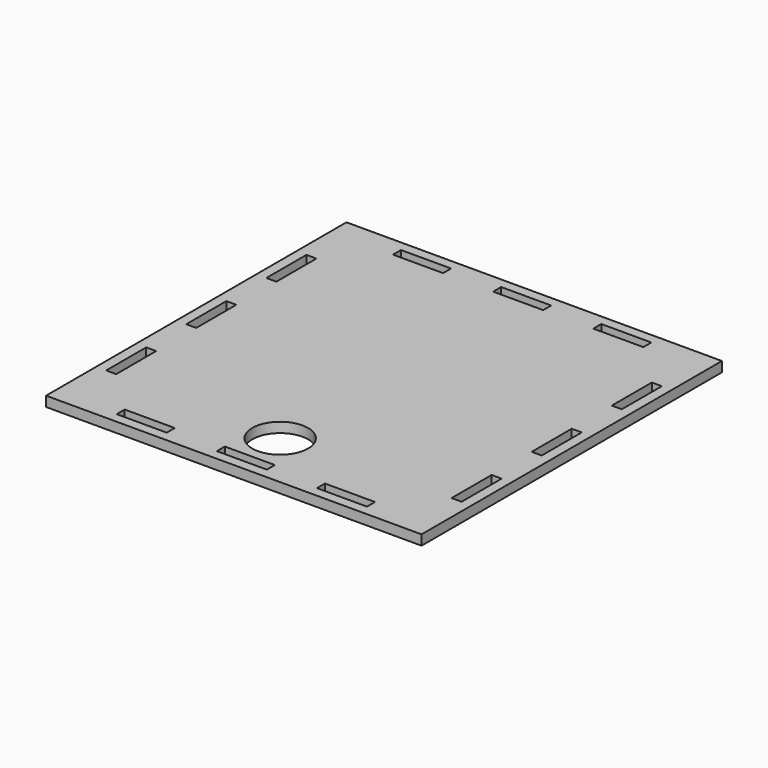
from build123d import *

# Parameters (mm, degrees)
F0_W     = 150
F0_H     = 150
F0_R     = 11.15
F1_DEPTH = 4


with BuildPart() as f1:
    # F0 (on Top) → F1 (new body)
    with BuildSketch(Plane.XY):
        Rectangle(F0_W, F0_H)
        Polygon((-30, -71), (-40, -71), (-50, -71), (-50, -67), (-40, -67), (-30, -67), align=None, mode=Mode.SUBTRACT)
        Polygon((-71, -30), (-67, -30), (-67, -50), (-71, -50), (-71, -40), align=None, mode=Mode.SUBTRACT)
        Polygon((-10, -71), (-10, -67), (0, -67), (10, -67), (10, -71), (0, -71), align=None, mode=Mode.SUBTRACT)
        with Locations((0, -51.85)):
            Circle(F0_R, mode=Mode.SUBTRACT)
        Polygon((50, -71), (40, -71), (30, -71), (30, -67), (40, -67), (50, -67), align=None, mode=Mode.SUBTRACT)
        Polygon((71, -50), (67, -50), (67, -30), (71, -30), (71, -40), align=None, mode=Mode.SUBTRACT)
        Polygon((-71, -10), (-71, 0), (-71, 10), (-67, 10), (-67, 0), (-67, -10), align=None, mode=Mode.SUBTRACT)
        Polygon((-71, 50), (-67, 50), (-67, 30), (-71, 30), (-71, 40), align=None, mode=Mode.SUBTRACT)
        Polygon((-30, 71), (-30, 67), (-40, 67), (-50, 67), (-50, 71), (-40, 71), align=None, mode=Mode.SUBTRACT)
        Polygon((71, 0), (71, -10), (67, -10), (67, 10), (71, 10), align=None, mode=Mode.SUBTRACT)
        Polygon((-10, 71), (0, 71), (10, 71), (10, 67), (0, 67), (-10, 67), align=None, mode=Mode.SUBTRACT)
        Polygon((71, 30), (67, 30), (67, 50), (71, 50), (71, 40), align=None, mode=Mode.SUBTRACT)
        Polygon((30, 71), (40, 71), (50, 71), (50, 67), (40, 67), (30, 67), align=None, mode=Mode.SUBTRACT)
    extrude(amount=F1_DEPTH)


solid = f1.part
